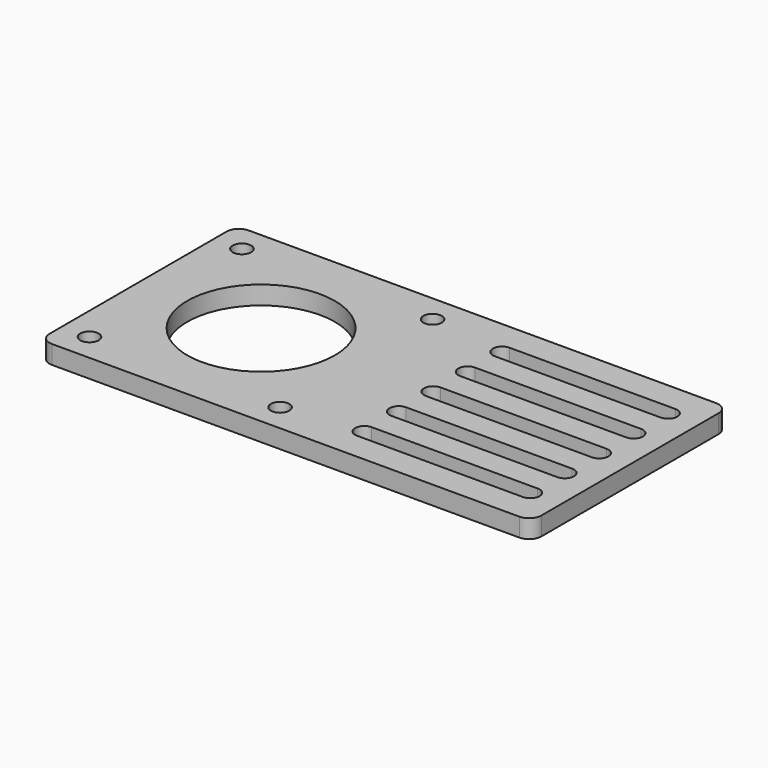
from build123d import *

# Parameters (mm, degrees)
SKETCH_W   = 80
SKETCH_H   = 40
SKETCH_R   = 12
SKETCH_R_2 = 1.5
PAD_DEPTH  = 3
FILLET_R   = 2


with BuildPart() as part:
    # Sketch → Pad (new body)
    with BuildSketch(Plane.XY):
        Rectangle(SKETCH_W, SKETCH_H)
        with Locations((-20, 0)):
            Circle(SKETCH_R, mode=Mode.SUBTRACT)
        with Locations((-35.5, 15.5)):
            Circle(SKETCH_R_2, mode=Mode.SUBTRACT)
        with Locations((-4.5, 15.5)):
            Circle(SKETCH_R_2, mode=Mode.SUBTRACT)
        with Locations((-35.5, -15.5)):
            Circle(SKETCH_R_2, mode=Mode.SUBTRACT)
        with Locations((-4.5, -15.5)):
            Circle(SKETCH_R_2, mode=Mode.SUBTRACT)
        with BuildLine():
            ThreePointArc((8, 1.5), (6.5, 0), (8, -1.5))
            Line((8, -1.5), (35, -1.5))
            ThreePointArc((35, -1.5), (36.5, 0), (35, 1.5))
            Line((8, 1.5), (35, 1.5))
        make_face(mode=Mode.SUBTRACT)
        with BuildLine():
            ThreePointArc((8, 8.5), (6.5, 7), (8, 5.5))
            Line((8, 5.5), (35, 5.5))
            ThreePointArc((35, 5.5), (36.5, 7), (35, 8.5))
            Line((8, 8.5), (35, 8.5))
        make_face(mode=Mode.SUBTRACT)
        with BuildLine():
            ThreePointArc((8, 15.5), (6.5, 14), (8, 12.5))
            Line((8, 12.5), (35, 12.5))
            ThreePointArc((35, 12.5), (36.5, 14), (35, 15.5))
            Line((8, 15.5), (35, 15.5))
        make_face(mode=Mode.SUBTRACT)
        with BuildLine():
            ThreePointArc((8, -5.5), (6.5, -7), (8, -8.5))
            Line((8, -8.5), (35, -8.5))
            ThreePointArc((35, -8.5), (36.5, -7), (35, -5.5))
            Line((8, -5.5), (35, -5.5))
        make_face(mode=Mode.SUBTRACT)
        with BuildLine():
            ThreePointArc((8, -12.5), (6.5, -14), (8, -15.5))
            Line((8, -15.5), (35, -15.5))
            ThreePointArc((35, -15.5), (36.5, -14), (35, -12.5))
            Line((8, -12.5), (35, -12.5))
        make_face(mode=Mode.SUBTRACT)
    extrude(amount=PAD_DEPTH)

    # Fillet
    fillet_edges = [part.edges().sort_by_distance(p)[0] for p in [
        (-40, 20, 1.5),
        (-40, -20, 1.5),
        (40, -20, 1.5),
        (40, 20, 1.5),
    ]]
    fillet(fillet_edges, radius=FILLET_R)


solid = part.part
